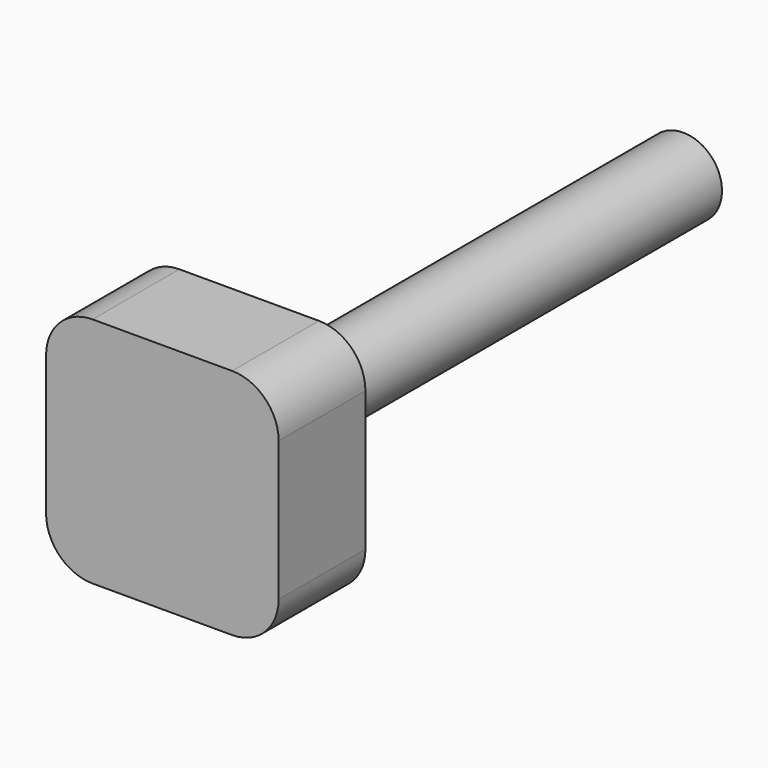
from build123d import *

# Parameters (mm, degrees)
SKETCH143_R             = 2.5
PAD073_DEPTH            = 42
SKETCH142_W             = 15
SKETCH142_H             = 15
PAD074_DEPTH            = 7
FILLET002_R             = 3
BODY042_PLACEMENT_ANGLE = 180


with BuildPart() as part:
    # Sketch143 → Pad073 (new body)
    with BuildSketch(Plane.XZ):
        Circle(SKETCH143_R)
    extrude(amount=-PAD073_DEPTH)

    # Sketch142 (on Face3 of Pad073) → Pad074 (join)
    with BuildSketch(Plane(origin=(0, 42, 0), x_dir=(1, 0, 0), z_dir=(0, 1, 0))):
        Rectangle(SKETCH142_W, SKETCH142_H)
    extrude(amount=-PAD074_DEPTH)

    # Fillet002
    fillet002_edges = [part.edges().sort_by_distance(p)[0] for p in [
        (7.5, 38.5, -7.5),
        (7.5, 38.5, 7.5),
        (-7.5, 38.5, 7.5),
        (-7.5, 38.5, -7.5),
    ]]
    fillet(fillet002_edges, radius=FILLET002_R)


with BuildPart() as part_1:
    # Body042 placement: moved
    add(part.part.moved(Location((0, -17.75, 150))).rotate(Axis((0, -17.75, 150), (0, 0, 1)), BODY042_PLACEMENT_ANGLE))


solid = part_1.part
